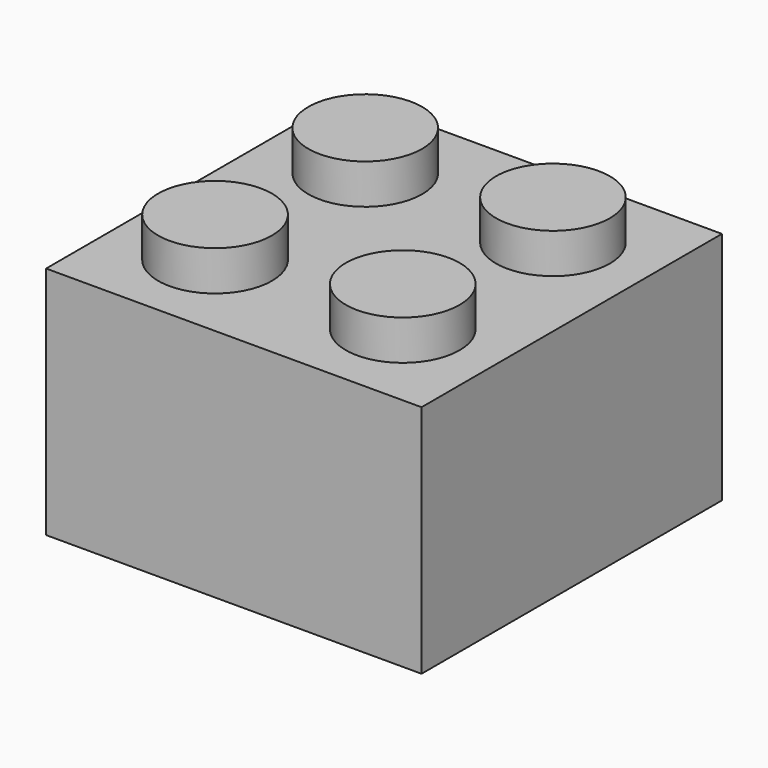
from build123d import *

# Parameters (mm, degrees)
F0_W     = 16
F0_H     = 16
F1_DEPTH = 10
F2_T     = -1.5
F3_R     = 2.425
F4_DEPTH = 1.7
F5_R     = 2.925
F6_DEPTH = 10


with BuildPart() as f1:
    # F0 (on Top) → F1 (new body)
    with BuildSketch(Plane.XY):
        Rectangle(F0_W, F0_H)
    extrude(amount=F1_DEPTH)

    # F2
    f2_openings = [f1.faces().sort_by_distance(p)[0] for p in [
        (0, 0, 0),
    ]]
    offset(amount=F2_T, openings=f2_openings)

    # F3 (on face) → F4 (join)
    with BuildSketch(Plane.XY.offset(10)):
        with Locations((-4, -4)):
            Circle(F3_R)
        with Locations((-4, 4)):
            Circle(F3_R)
        with Locations((4, -4)):
            Circle(F3_R)
        with Locations((4, 4)):
            Circle(F3_R)
    extrude(amount=F4_DEPTH)

    # F5 (on Top) → F6 (join)
    with BuildSketch(Plane.XY):
        Circle(F5_R)
    extrude(amount=F6_DEPTH)


solid = f1.part
